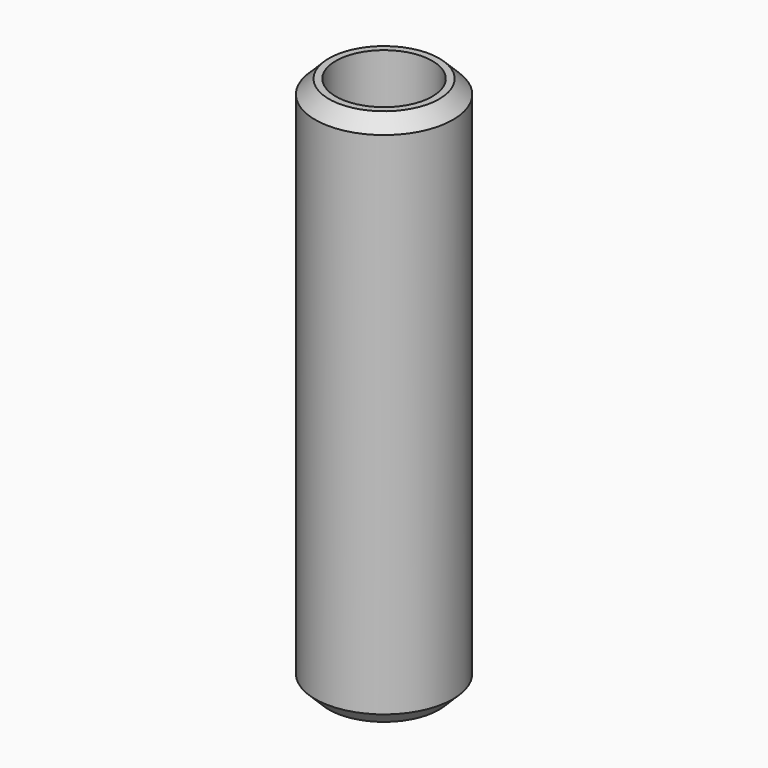
from build123d import *

# Parameters (mm, degrees)
F0_R     = 5
F0_R_2   = 3.5
F1_DEPTH = 19.5
F2_SIZE2 = 1
F2_SIZE  = 1


with BuildPart() as f1:
    # F0 (on Top) → F1 (new body, symmetric)
    with BuildSketch(Plane.XY):
        Circle(F0_R)
        Circle(F0_R_2, mode=Mode.SUBTRACT)
    extrude(amount=F1_DEPTH, both=True)

    # F2
    f2_edges = [f1.edges().sort_by_distance(p)[0] for p in [
        (-5, 0, 19.5),
        (-5, 0, -19.5),
    ]]
    chamfer(f2_edges, length=F2_SIZE, length2=F2_SIZE2)


solid = f1.part
